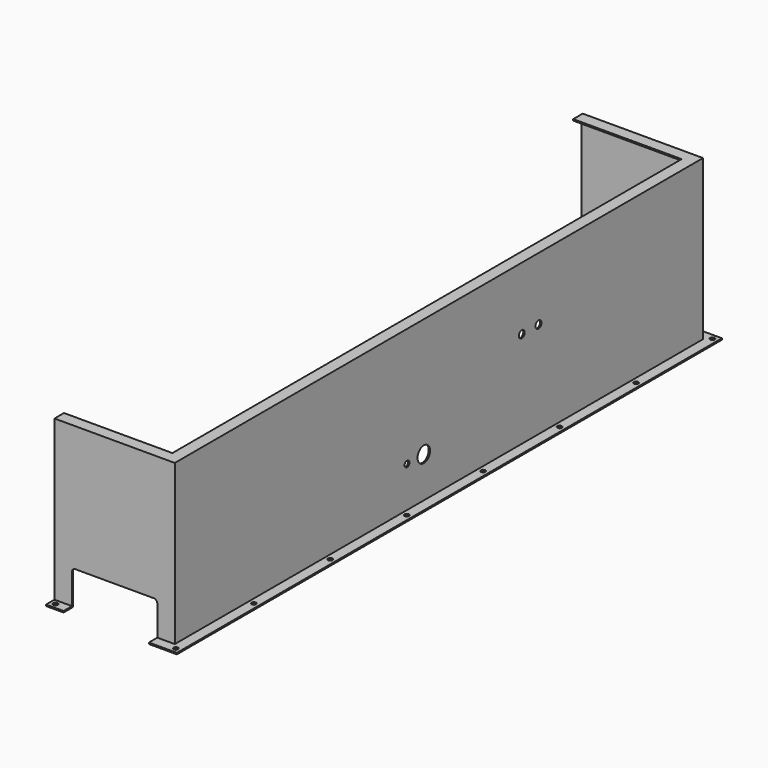
from build123d import *

# Parameters (mm, degrees)
F0_R     = 3.25
F1_DEPTH = 2
F3_DEPTH = 226
F5_DEPTH = 2
F7_DEPTH = 1220.99755
F8_R     = 5.25
F8_R_2   = 11.25
F8_R_3   = 4.25
F9_DEPTH = 25


with BuildPart() as f1:
    # F0 (on Top) → F1 (new body)
    with BuildSketch(Plane.XY):
        Polygon((-19.607349, 959.007126), (-19.607349, 942.007126), (150.392651, 942.007126), (150.392651, 2.007126), (-19.607349, 2.007126), (-19.607349, -14.992874), (167.392651, -14.992874), (167.392651, 959.007126), align=None)
        with Locations((-12.107349, -7.492874)):
            Circle(F0_R, mode=Mode.SUBTRACT)
        with Locations((159.892651, -7.492874)):
            Circle(F0_R, mode=Mode.SUBTRACT)
        with Locations((159.892651, 131.907126)):
            Circle(F0_R, mode=Mode.SUBTRACT)
        with Locations((159.892651, 268.507126)):
            Circle(F0_R, mode=Mode.SUBTRACT)
        with Locations((159.892651, 405.107126)):
            Circle(F0_R, mode=Mode.SUBTRACT)
        with Locations((-12.107349, 951.507126)):
            Circle(F0_R, mode=Mode.SUBTRACT)
        with Locations((159.892651, 541.707126)):
            Circle(F0_R, mode=Mode.SUBTRACT)
        with Locations((159.892651, 678.307126)):
            Circle(F0_R, mode=Mode.SUBTRACT)
        with Locations((159.892651, 814.907126)):
            Circle(F0_R, mode=Mode.SUBTRACT)
        with Locations((159.892651, 951.507126)):
            Circle(F0_R, mode=Mode.SUBTRACT)
    extrude(amount=F1_DEPTH)

    # F2 (on face) → F3 (join)
    with BuildSketch(Plane.XY.offset(2)):
        Polygon((-19.607349, 944.007126), (-19.607349, 942.007126), (150.392651, 942.007126), (150.392651, 2.007126), (-19.607349, 2.007126), (-19.607349, 0.007126), (152.392651, 0.007126), (152.392651, 944.007126), align=None)
    extrude(amount=F3_DEPTH)

    # F4 (on face) → F5 (join)
    with BuildSketch(Plane.XY.offset(228)):
        Polygon((152.392651, 944.007126), (-19.607349, 944.007126), (-19.607349, 927.007126), (135.392651, 927.007126), (135.392651, 17.007126), (-19.607349, 17.007126), (-19.607349, 0.007126), (152.392651, 0.007126), align=None)
    extrude(amount=F5_DEPTH)

    # F6 (on face) → F7 (cut)
    with BuildSketch(Plane(origin=(0, 959.007126, 0), x_dir=(-1, 0, 0), z_dir=(0, 1, 0))):
        with BuildLine():
            Line((-10.392651, 50), (-122.392651, 50))
            ThreePointArc((-122.392651, 50), (-125.928185, 48.535534), (-127.392651, 45))
            Line((-127.392651, 45), (-127.392651, -20.446198))
            Line((-127.392651, -20.446198), (-5.392651, -20.446198))
            Line((-5.392651, -20.446198), (-5.392651, 45))
            ThreePointArc((-5.392651, 45), (-6.857117, 48.535534), (-10.392651, 50))
        make_face()
    extrude(amount=-F7_DEPTH, mode=Mode.SUBTRACT)

    # F8 (on face) → F9 (cut)
    with BuildSketch(Plane.YZ.offset(152.392651)):
        with Locations((620.007126, 140)):
            Circle(F8_R)
        with Locations((650.007126, 140)):
            Circle(F8_R)
        with Locations((445.007126, 60)):
            Circle(F8_R_2)
        with Locations((415.007126, 60)):
            Circle(F8_R_3)
    extrude(amount=-F9_DEPTH, mode=Mode.SUBTRACT)


solid = f1.part
